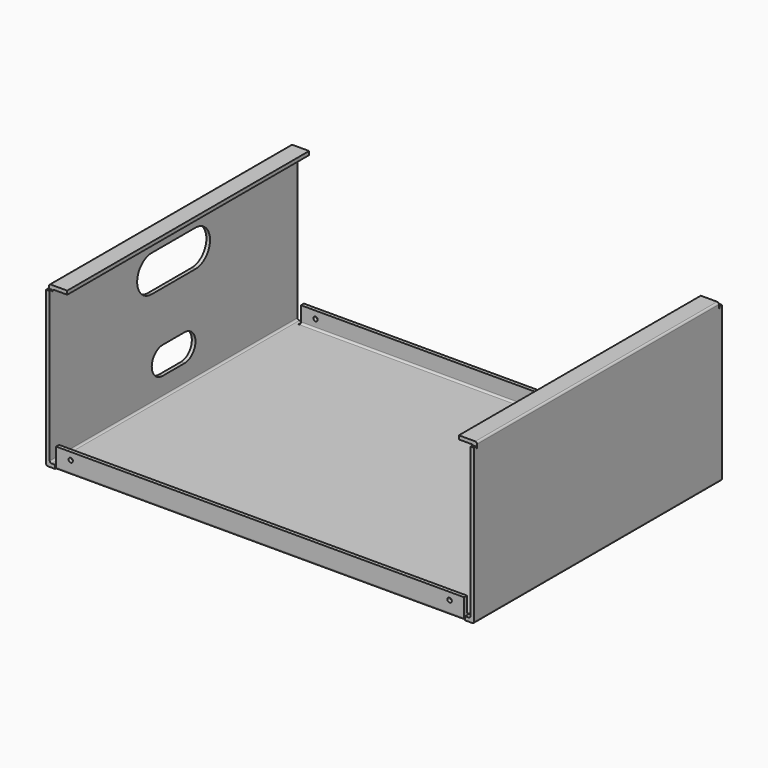
from build123d import *

# Parameters (mm, degrees)
F1_DEPTH  = 2
F2_W      = 2
F2_H      = 170
F3_DEPTH  = 83
F4_R      = 1
F5_W      = 10
F5_H      = 166
F6_DEPTH  = 2
F7_R      = 1
F8_W      = 224
F8_H      = 2
F9_DEPTH  = 9
F10_R     = 1
F11_W     = 0.5
F11_H     = 1
F12_DEPTH = 235.001
F14_DEPTH = 3
F15_R     = 1.2
F16_DEPTH = 170.001


with BuildPart() as f1:
    # F0 (on Top) → F1 (new body)
    with BuildSketch(Plane.XY):
        Polygon((112.5, -85), (117.5, -85), (117.5, 85), (112.5, 85), (112.5, 82), (112, 82), (112, 85), (-112, 85), (-112, 82), (-112.5, 82), (-112.5, 85), (-117.5, 85), (-117.5, -85), (-112.5, -85), (-112.5, -82), (-112, -82), (-112, -85), (112, -85), (112, -82), (112.5, -82), align=None)
    extrude(amount=F1_DEPTH)

    # F2 (on face) → F3 (join)
    with BuildSketch(Plane.XY.offset(2)):
        with Locations((116.5, 0)):
            Rectangle(F2_W, F2_H)
        with Locations((-116.5, 0)):
            Rectangle(F2_W, F2_H)
    extrude(amount=F3_DEPTH)

    # F4
    f4_edges = [f1.edges().sort_by_distance(p)[0] for p in [
        (-117.5, 0, 0),
        (117.5, 0, 0),
        (-115.5, 0, 2),
        (115.5, 0, 2),
    ]]
    fillet(f4_edges, radius=F4_R)

    # F5 (on face) → F6 (join)
    with BuildSketch(Plane.XY.offset(85)):
        with Locations((-112.5, 0)):
            Rectangle(F5_W, F5_H)
        with Locations((112.5, 0)):
            Rectangle(F5_W, F5_H)
    extrude(amount=F6_DEPTH)

    # F7
    f7_edges = [f1.edges().sort_by_distance(p)[0] for p in [
        (-117.5, 0, 87),
        (117.5, 0, 87),
        (-115.5, 0, 85),
        (115.5, 0, 85),
    ]]
    fillet(f7_edges, radius=F7_R)

    # F8 (on face) → F9 (join)
    with BuildSketch(Plane.XY.offset(2)):
        with Locations((0, -84)):
            Rectangle(F8_W, F8_H)
        with Locations((0, 84)):
            Rectangle(F8_W, F8_H)
    extrude(amount=F9_DEPTH)

    # F10
    f10_edges = [f1.edges().sort_by_distance(p)[0] for p in [
        (0, -85, 0),
        (0, -83, 2),
        (0, 83, 2),
        (0, 85, 0),
    ]]
    fillet(f10_edges, radius=F10_R)

    # F11 (on face) → F12 (cut, through all)
    with BuildSketch(Plane(origin=(-117.5, 0, 0), x_dir=(0, -1, 0), z_dir=(-1, 0, 0))):
        with Locations((83.25, 84.5)):
            Rectangle(F11_W, F11_H)
        with Locations((-83.25, 84.5)):
            Rectangle(F11_W, F11_H)
    extrude(amount=-F12_DEPTH, mode=Mode.SUBTRACT)

    # F13 (on face) → F14 (cut)
    with BuildSketch(Plane(origin=(-117.5, 0, 0), x_dir=(0, -1, 0), z_dir=(-1, 0, 0))):
        with BuildLine():
            Line((-7.5, 12.5), (7.5, 12.5))
            ThreePointArc((7.5, 12.5), (15, 20), (7.5, 27.5))
            Line((7.5, 27.5), (-7.5, 27.5))
            ThreePointArc((-7.5, 27.5), (-15, 20), (-7.5, 12.5))
        make_face()
        with BuildLine():
            Line((-15, 55), (15, 55))
            ThreePointArc((15, 55), (25, 65), (15, 75))
            Line((15, 75), (-15, 75))
            ThreePointArc((-15, 75), (-25, 65), (-15, 55))
        make_face()
    extrude(amount=-F14_DEPTH, mode=Mode.SUBTRACT)

    # F15 (on face) → F16 (cut, through all)
    with BuildSketch(Plane.XZ.offset(85)):
        with Locations((104, 7)):
            Circle(F15_R)
        with Locations((-104, 7)):
            Circle(F15_R)
    extrude(amount=-F16_DEPTH, mode=Mode.SUBTRACT)


solid = f1.part
